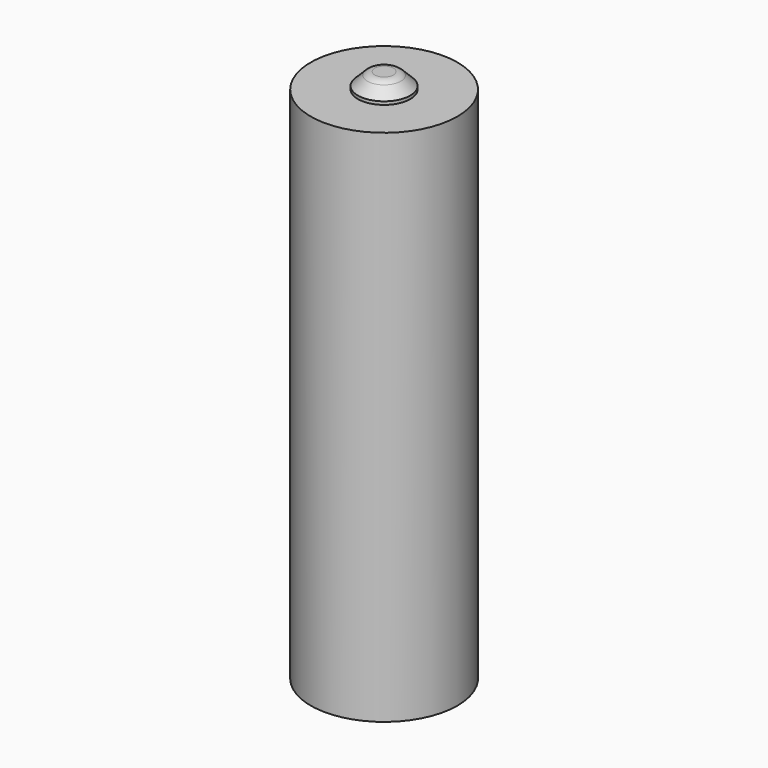
from build123d import *

# Parameters (mm, degrees)
SKETCH012_R  = 7
PAD007_DEPTH = 49.5
SKETCH011_R  = 2.5
PAD008_DEPTH = 1.5
CHAMFER_SIZE = 1.2
FILLET002_R  = 1


with BuildPart() as part:
    # Sketch012 → Pad007 (new body)
    with BuildSketch(Plane.XY):
        Circle(SKETCH012_R)
    extrude(amount=PAD007_DEPTH)

    # Sketch011 (on Face3 of Pad007) → Pad008 (join)
    with BuildSketch(Plane.XY.offset(49.5)):
        Circle(SKETCH011_R)
    extrude(amount=PAD008_DEPTH)

    # Chamfer
    chamfer_edges = [part.edges().sort_by_distance(p)[0] for p in [
        (-2.5, 0, 51),
    ]]
    chamfer(chamfer_edges, length=CHAMFER_SIZE)

    # Fillet002
    fillet002_edges = [part.edges().sort_by_distance(p)[0] for p in [
        (-1.3, 0, 51),
    ]]
    fillet(fillet002_edges, radius=FILLET002_R)


solid = part.part
